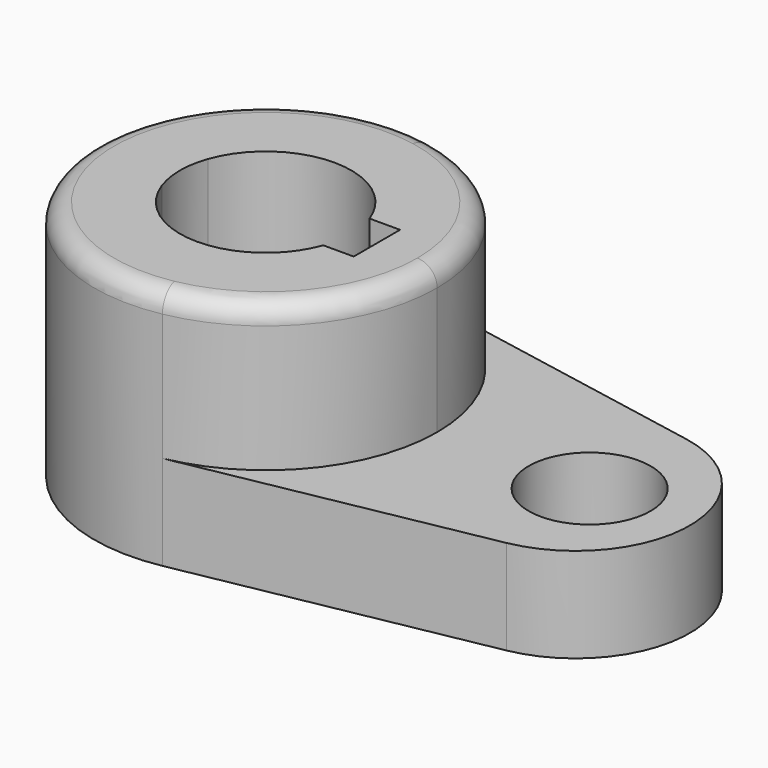
from build123d import *

# Parameters (mm, degrees)
F0_R     = 10.16
F1_DEPTH = 15.7734
F2_DEPTH = 40.2336
F3_R     = 3.302


with BuildPart() as f1:
    # F0 (on Top) → F1 (new body)
    with BuildSketch(Plane.XY):
        with BuildLine():
            ThreePointArc((5.272246, 28.084409), (21.990737, 18.246591), (28.575, 0))
            ThreePointArc((28.575, 0), (21.990737, -18.246591), (5.272246, -28.084409))
            Line((5.272246, -28.084409), (55.139294, -18.72294))
            ThreePointArc((55.139294, -18.72294), (70.674464, 0), (55.139294, 18.72294))
            Line((55.139294, 18.72294), (5.272246, 28.084409))
        make_face()
        with Locations((53.975, 0)):
            Circle(F0_R, mode=Mode.SUBTRACT)
    extrude(amount=F1_DEPTH)

    # F0 (on Top) → F2 (join)
    with BuildSketch(Plane.XY):
        with BuildLine():
            ThreePointArc((5.272246, -28.084409), (21.990737, -18.246591), (28.575, 0))
            ThreePointArc((28.575, 0), (21.990737, 18.246591), (5.272246, 28.084409))
            ThreePointArc((5.272246, 28.084409), (-28.575, 0), (5.272246, -28.084409))
        make_face()
        with BuildLine():
            ThreePointArc((-13.447765, 4.826), (0, 14.2875), (13.447765, 4.826))
            Line((13.447765, 4.826), (18.5293, 4.826))
            Line((18.5293, 4.826), (18.5293, -4.826))
            Line((18.5293, -4.826), (13.447765, -4.826))
            ThreePointArc((13.447765, -4.826), (0, -14.2875), (-13.447765, -4.826))
            Line((-13.447765, -4.826), (-18.5293, -4.826))
            Line((-18.5293, -4.826), (-18.5293, 4.826))
            Line((-18.5293, 4.826), (-13.447765, 4.826))
        make_face(mode=Mode.SUBTRACT)
        with BuildLine():
            ThreePointArc((-13.447765, -4.826), (-14.2875, 0), (-13.447765, 4.826))
            Line((-13.447765, 4.826), (-18.5293, 4.826))
            Line((-18.5293, 4.826), (-18.5293, -4.826))
            Line((-18.5293, -4.826), (-13.447765, -4.826))
        make_face()
    extrude(amount=F2_DEPTH)

    # F3
    f3_edges = [f1.edges().sort_by_distance(p)[0] for p in [
        (-5.272246, 28.084409, 40.2336),
    ]]
    fillet(f3_edges, radius=F3_R)


solid = f1.part
